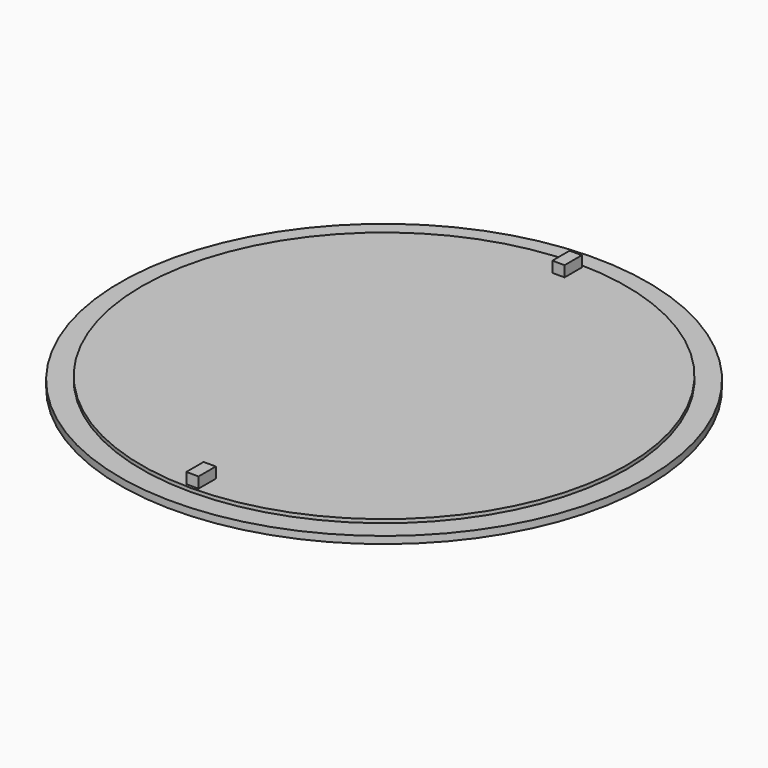
from build123d import *

# Parameters (mm, degrees)
F0_R     = 36.75
F1_DEPTH = 1
F2_R     = 33.75
F2_W     = 1.7
F2_H     = 3
F3_DEPTH = 0.5
F4_DEPTH = 2


with BuildPart() as f1:
    # F0 (on Top) → F1 (new body)
    with BuildSketch(Plane.XY):
        Circle(F0_R)
    extrude(amount=F1_DEPTH)

    # F2 (on face) → F3 (join)
    with BuildSketch(Plane.XY.offset(1)):
        Circle(F2_R)
        with Locations((0, -31.85)):
            Rectangle(F2_W, F2_H, mode=Mode.SUBTRACT)
        with Locations((0, 31.85)):
            Rectangle(F2_W, F2_H, mode=Mode.SUBTRACT)
    extrude(amount=F3_DEPTH)

    # F4 (add): faces of the model
    f4_faces = [f1.faces().sort_by_distance(p)[0] for p in [
        (0, -31.85, 1),
        (0, 31.85, 1),
    ]]
    extrude(f4_faces, amount=F4_DEPTH)


solid = f1.part
